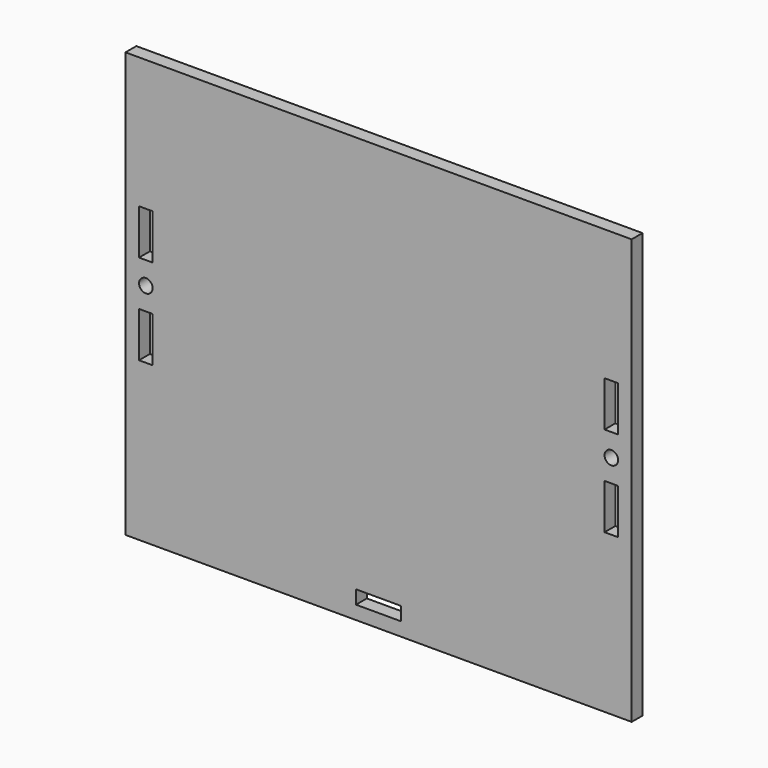
from build123d import *

# Parameters (mm, degrees)
F0_W     = 112
F0_H     = 94
F0_W_2   = 3
F0_H_2   = 10
F0_W_3   = 10
F0_H_3   = 3
F0_R     = 1.5
F1_DEPTH = 3


with BuildPart() as f1:
    # F0 (on Front) → F1 (new body)
    with BuildSketch(Plane.XZ):
        Rectangle(F0_W, F0_H)
        with Locations((-51.5, -7)):
            Rectangle(F0_W_2, F0_H_2, mode=Mode.SUBTRACT)
        with Locations((0, -42.5)):
            Rectangle(F0_W_3, F0_H_3, mode=Mode.SUBTRACT)
        with Locations((51.5, -7)):
            Rectangle(F0_W_2, F0_H_2, mode=Mode.SUBTRACT)
        with Locations((-51.5, 3)):
            Circle(F0_R, mode=Mode.SUBTRACT)
        with Locations((-51.5, 13)):
            Rectangle(F0_W_2, F0_H_2, mode=Mode.SUBTRACT)
        with Locations((51.5, 3)):
            Circle(F0_R, mode=Mode.SUBTRACT)
        with Locations((51.5, 13)):
            Rectangle(F0_W_2, F0_H_2, mode=Mode.SUBTRACT)
    extrude(amount=F1_DEPTH)


solid = f1.part
